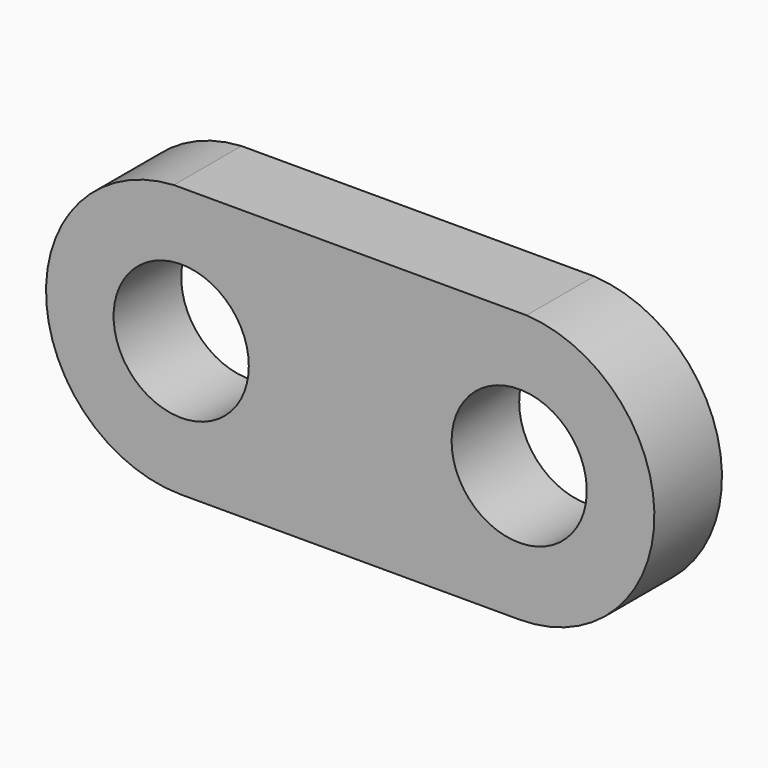
from build123d import *

# Parameters (mm, degrees)
F0_R     = 2
F1_DEPTH = 2.5


with BuildPart() as f1:
    # F0 (on Front) → F1 (new body)
    with BuildSketch(Plane.XZ):
        with BuildLine():
            Line((5.398431, 3.994088), (-4.166759, 3.994088))
            Line((-4.166759, 3.994088), (-4.601569, 3.994088))
            ThreePointArc((-4.601569, 3.994088), (-8.38304, -0.094824), (-4.41201, -3.999903))
            ThreePointArc((-4.41201, -3.999903), (-4.384203, -4), (-4.356396, -3.999904))
            Line((-4.356396, -3.999904), (5.615797, -4))
            ThreePointArc((5.615797, -4), (9.614357, -0.108762), (5.833241, 3.994088))
            Line((5.833241, 3.994088), (5.398431, 3.994088))
        make_face()
        with Locations((-4.384164, 0)):
            Circle(F0_R, mode=Mode.SUBTRACT)
        with BuildLine():
            ThreePointArc((7.615836, 0), (5.615836, -2), (3.615836, 0))
            ThreePointArc((3.615836, 0), (5.615836, 2), (7.615836, 0))
        make_face(mode=Mode.SUBTRACT)
    extrude(amount=F1_DEPTH)


solid = f1.part
